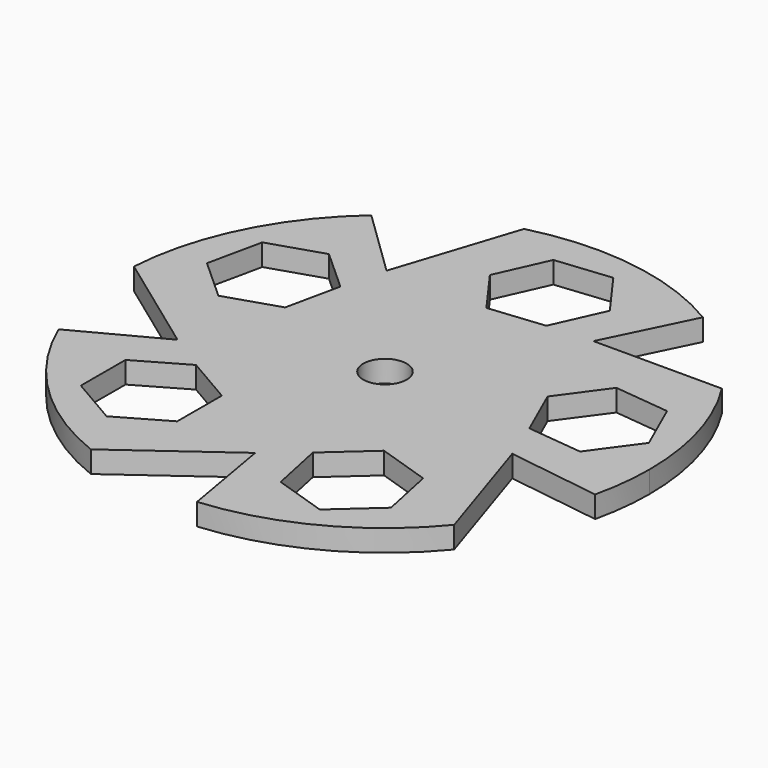
from build123d import *

# Parameters (mm, degrees)
F0_R     = 3
F1_DEPTH = 3


with BuildPart() as f1:
    # F0 (on Top) → F1 (new body)
    with BuildSketch(Plane.XY):
        with BuildLine():
            ThreePointArc((35.620954, -8.242963), (36.326171, -4.148268), (36.562259, 0))
            ThreePointArc((36.562259, 0), (35.106793, 10.213321), (30.85627, 19.613501))
            Line((30.85627, 19.613501), (13.104219, 19.613501))
            Line((13.104219, 19.613501), (18.847004, 31.330325))
            ThreePointArc((18.847004, 31.330325), (5.274088, 36.179867), (-9.118436, 35.406962))
            Line((-9.118436, 35.406962), (-14.604121, 18.523758))
            Line((-14.604121, 18.523758), (-23.972865, 27.606169))
            ThreePointArc((-23.972865, 27.606169), (-32.779316, 16.196149), (-36.491773, 2.269205))
            Line((-36.491773, 2.269205), (-22.130062, -8.165189))
            Line((-22.130062, -8.165189), (-33.663049, -14.268774))
            ThreePointArc((-33.663049, -14.268774), (-25.532819, -26.170097), (-13.43472, -34.004516))
            Line((-13.43472, -34.004516), (0.926991, -23.570122))
            Line((0.926991, -23.570122), (3.167956, -36.424756))
            ThreePointArc((3.167956, -36.424756), (16.999166, -32.370159), (28.188659, -23.285152))
            Line((28.188659, -23.285152), (22.702974, -6.401948))
            Line((22.702974, -6.401948), (35.620954, -8.242963))
        make_face()
        Polygon((-16.89326, -11.515298), (-10.23678, -15.379139), (-10.254725, -23.07574), (-16.92915, -26.9085), (-23.58563, -23.044659), (-23.567685, -15.348058), align=None, mode=Mode.SUBTRACT)
        Polygon((5.731394, -19.624868), (11.463091, -14.488172), (18.777449, -16.883619), (20.36011, -24.415762), (14.628413, -29.552458), (7.314055, -27.157011), align=None, mode=Mode.SUBTRACT)
        Polygon((-16.172003, 12.508023), (-17.78977, 4.983341), (-25.115218, 2.622027), (-30.8229, 7.785395), (-29.205133, 15.310076), (-21.879685, 17.67139), align=None, mode=Mode.SUBTRACT)
        Circle(F0_R, mode=Mode.SUBTRACT)
        Polygon((20.435457, -0.613538), (17.32136, 6.424956), (21.859827, 12.64109), (29.51239, 11.818729), (32.626486, 4.780235), (28.08802, -1.435898), align=None, mode=Mode.SUBTRACT)
        Polygon((5.535865, 32.506806), (10.045296, 26.269577), (6.898412, 19.245681), (-0.757902, 18.459013), (-5.267333, 24.696242), (-2.12045, 31.720139), align=None, mode=Mode.SUBTRACT)
    extrude(amount=F1_DEPTH)


solid = f1.part
